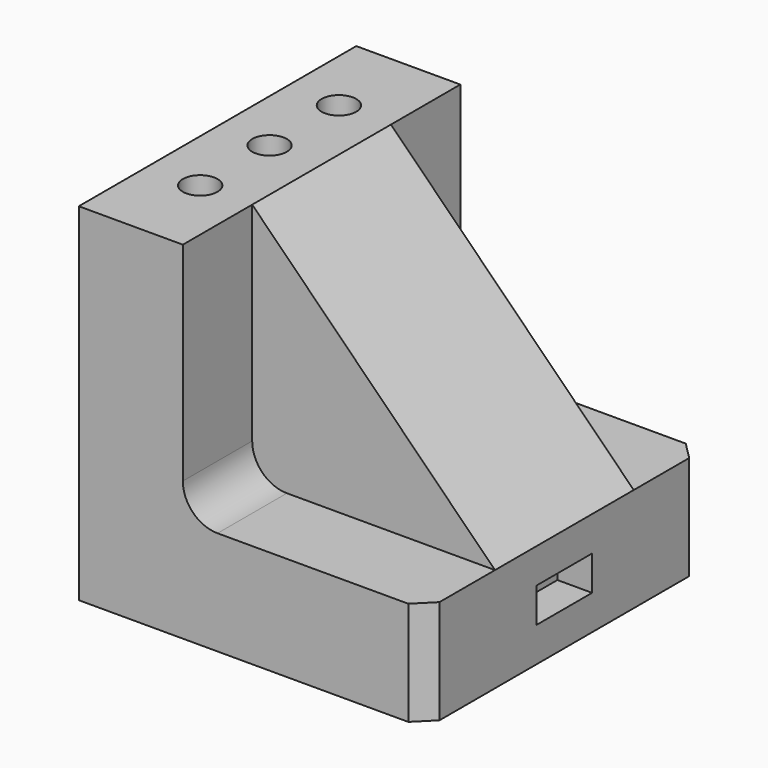
from build123d import *

# Parameters (mm, degrees)
F0_W      = 100
F0_H      = 100
F1_DEPTH  = 100
F2_W      = 20
F2_H      = 10
F3_DEPTH  = 10
F4_R      = 5
F5_DEPTH  = 100.001
F7_DEPTH  = 100.001
F9_DEPTH  = 25
F11_DEPTH = 25
F12_R     = 10
F13_SIZE  = 5


with BuildPart() as f1:
    # F0 (on Top) → F1 (new body)
    with BuildSketch(Plane.XY):
        with Locations((50, 50)):
            Rectangle(F0_W, F0_H)
    extrude(amount=F1_DEPTH)

    # F2 (on face) → F3 (cut)
    with BuildSketch(Plane.YZ.offset(100)):
        with Locations((50, 15)):
            Rectangle(F2_W, F2_H)
    extrude(amount=-F3_DEPTH, mode=Mode.SUBTRACT)

    # F4 (on face) → F5 (cut, through all)
    with BuildSketch(Plane.XY.offset(100)):
        with Locations((15, 75)):
            Circle(F4_R)
        with Locations((15, 50)):
            Circle(F4_R)
        with Locations((15, 25)):
            Circle(F4_R)
    extrude(amount=-F5_DEPTH, mode=Mode.SUBTRACT)

    # F6 (on face) → F7 (cut, through all)
    with BuildSketch(Plane.XZ):
        Polygon((100, 30), (100, 100), (30, 100), align=None)
    extrude(amount=-F7_DEPTH, mode=Mode.SUBTRACT)

    # F8 (on face) → F9 (cut)
    with BuildSketch(Plane.XZ):
        Polygon((100, 30), (30, 100), (30, 30), align=None)
    extrude(amount=-F9_DEPTH, mode=Mode.SUBTRACT)

    # F10 (on face) → F11 (cut)
    with BuildSketch(Plane(origin=(0, 100, 0), x_dir=(-1, 0, 0), z_dir=(0, 1, 0))):
        Polygon((-30, 100), (-100, 30), (-30, 30), align=None)
    extrude(amount=-F11_DEPTH, mode=Mode.SUBTRACT)

    # F12
    f12_edges = [f1.edges().sort_by_distance(p)[0] for p in [
        (30, 12.5, 30),
        (30, 87.5, 30),
    ]]
    fillet(f12_edges, radius=F12_R)

    # F13
    f13_edges = [f1.edges().sort_by_distance(p)[0] for p in [
        (100, 0, 15),
        (100, 100, 15),
    ]]
    chamfer(f13_edges, length=F13_SIZE)


solid = f1.part
